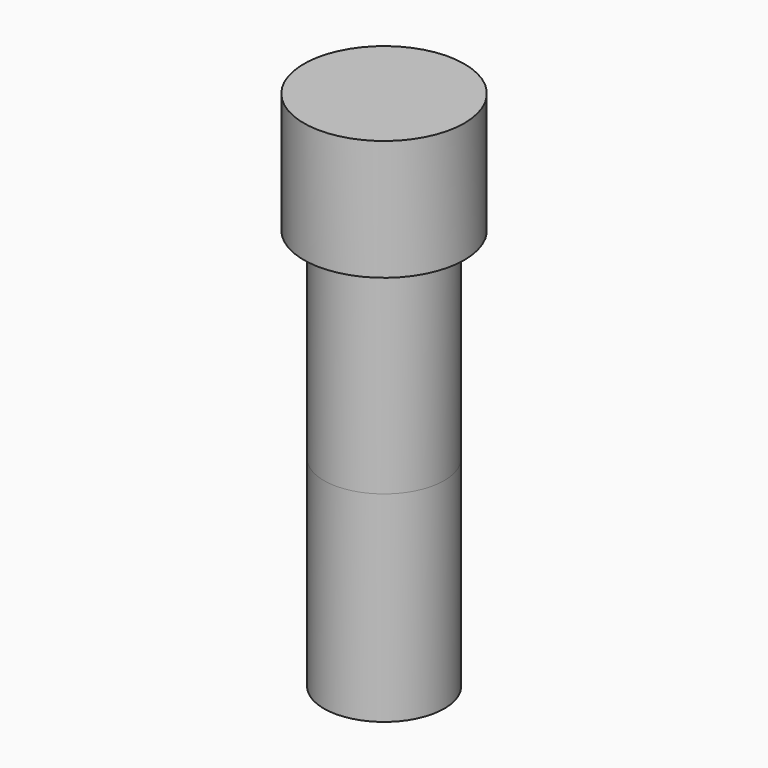
from build123d import *

# Parameters (mm, degrees)
SKETCH_R       = 1.5
PAD_DEPTH      = 5
SKETCH001_R    = 2
PAD001_DEPTH   = 3
PAD001_FACE5_R = 1.5
PAD002_DEPTH   = 5


with BuildPart() as part:
    # Sketch → Pad (new body)
    with BuildSketch(Plane.XY):
        Circle(SKETCH_R)
    extrude(amount=PAD_DEPTH)

    # Sketch001 (on Face3 of Pad) → Pad001 (join)
    with BuildSketch(Plane.XY.offset(5)):
        Circle(SKETCH001_R)
    extrude(amount=PAD001_DEPTH)

    # Pad001 Face5 → Pad002 (add)
    with BuildSketch(Plane(origin=(0, 0, 0), x_dir=(0, -1, 0), z_dir=(0, 0, -1))):
        Circle(PAD001_FACE5_R)
    extrude(amount=PAD002_DEPTH)


solid = part.part
